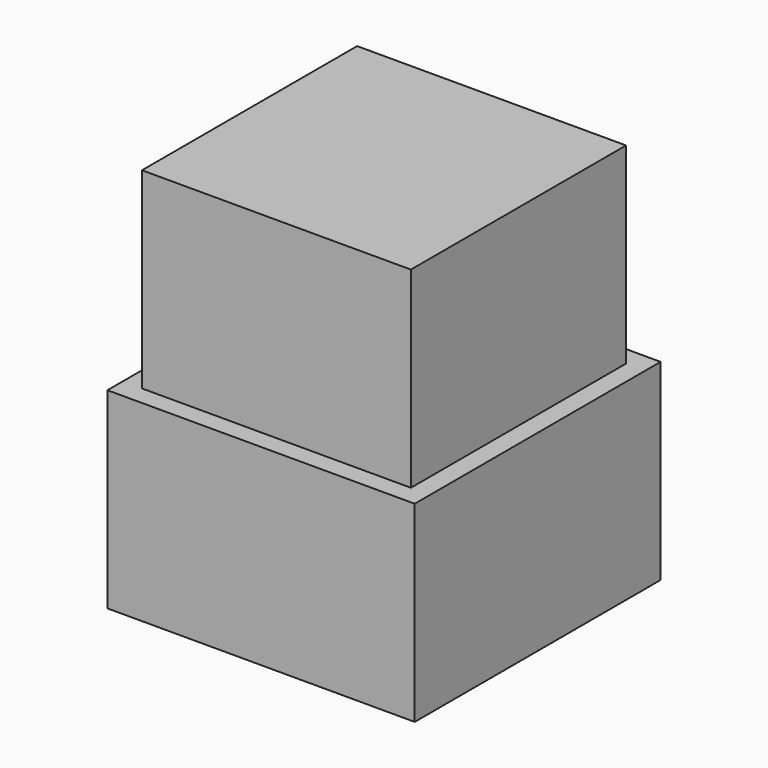
from build123d import *

# Parameters (mm, degrees)
BOX002_W     = 10
BOX002_H     = 10
BOX002_DEPTH = 18
BOX001_W     = 14
BOX001_H     = 14
BOX001_DEPTH = 10
BOX_W        = 16
BOX_H        = 16
BOX_DEPTH    = 10


with BuildPart() as cube002:
    # Box002 → Box002 (new body)
    with BuildSketch(Plane(origin=(-5, -5, 0), x_dir=(1, 0, 0), z_dir=(0, 0, 1))):
        with Locations((5, 5)):
            Rectangle(BOX002_W, BOX002_H)
    extrude(amount=BOX002_DEPTH)


with BuildPart() as cube001:
    # Box001 → Box001 (new body)
    with BuildSketch(Plane(origin=(-7, -7, 10), x_dir=(1, 0, 0), z_dir=(0, 0, 1))):
        with Locations((7, 7)):
            Rectangle(BOX001_W, BOX001_H)
    extrude(amount=BOX001_DEPTH)


with BuildPart() as cut:
    # Box → Box (new body)
    with BuildSketch(Plane(origin=(-8, -8, 0), x_dir=(1, 0, 0), z_dir=(0, 0, 1))):
        with Locations((8, 8)):
            Rectangle(BOX_W, BOX_H)
    extrude(amount=BOX_DEPTH)

    # Fusion: union Cube001
    add(cube001.part)

    # Cut: cut Cube002
    add(cube002.part, mode=Mode.SUBTRACT)


solid = cut.part
